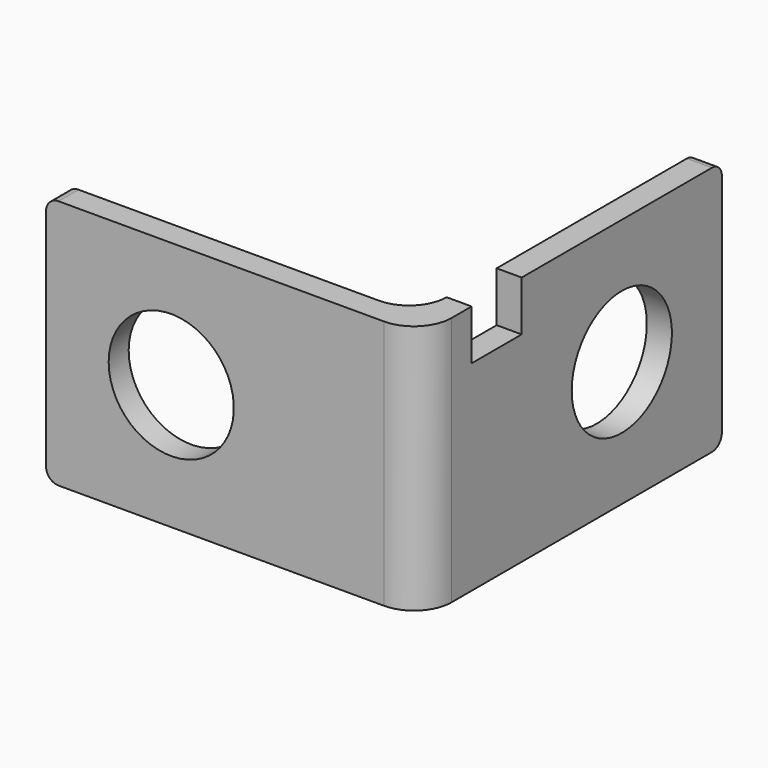
from build123d import *

# Parameters (mm, degrees)
F0_W     = 2
F0_H     = 20
F1_DEPTH = 30
F3_DEPTH = 2
F4_R     = 5
F5_DEPTH = 2.001
F6_R     = 5
F6_W     = 5
F6_H     = 4
F7_DEPTH = 2.001
F8_R     = 1
F9_R     = 3


with BuildPart() as f1:
    # F0 (on Right) → F1 (new body)
    with BuildSketch(Plane.YZ):
        with Locations((1, 10)):
            Rectangle(F0_W, F0_H)
    extrude(amount=F1_DEPTH)

    # F2 (on face) → F3 (join)
    with BuildSketch(Plane.YZ.offset(30)):
        Polygon((2, 20), (0, 20), (0, 0), (30, 0), (30, 20), align=None)
    extrude(amount=-F3_DEPTH)

    # F4 (on face) → F5 (cut, through all)
    with BuildSketch(Plane(origin=(0, 2, 0), x_dir=(-1, 0, 0), z_dir=(0, 1, 0))):
        with Locations((-10, 10)):
            Circle(F4_R)
    extrude(amount=-F5_DEPTH, mode=Mode.SUBTRACT)

    # F6 (on face) → F7 (cut, through all)
    with BuildSketch(Plane(origin=(28, 0, 0), x_dir=(0, -1, 0), z_dir=(-1, 0, 0))):
        with Locations((-20, 10)):
            Circle(F6_R)
        with Locations((-7.5, 18)):
            Rectangle(F6_W, F6_H)
    extrude(amount=-F7_DEPTH, mode=Mode.SUBTRACT)

    # F8
    f8_edges = [f1.edges().sort_by_distance(p)[0] for p in [
        (0, 1, 20),
        (29, 30, 20),
        (29, 30, 0),
        (0, 1, 0),
    ]]
    fillet(f8_edges, radius=F8_R)

    # F9
    f9_edges = [f1.edges().sort_by_distance(p)[0] for p in [
        (28, 2, 10),
        (30, 0, 10),
    ]]
    fillet(f9_edges, radius=F9_R)


solid = f1.part
